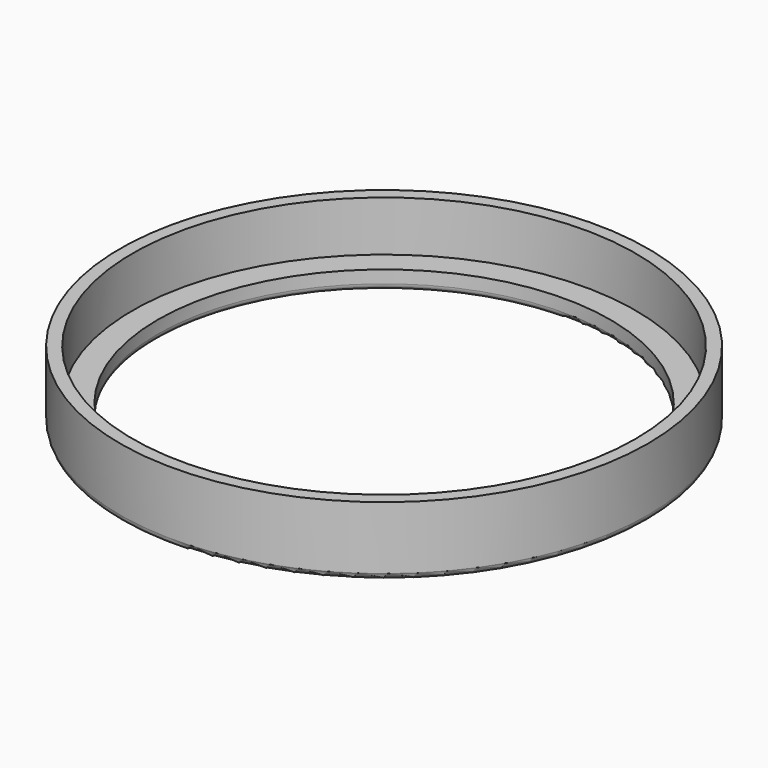
from build123d import *

# Parameters (mm, degrees)
F0_R     = 40
F0_R_2   = 36
F1_DEPTH = 3
F0_R_3   = 42
F2_DEPTH = 11
F3_R     = 1
F4_R     = 1


with BuildPart() as f1:
    # F0 (on Top) → F1 (new body)
    with BuildSketch(Plane.XY):
        Circle(F0_R)
        Circle(F0_R_2, mode=Mode.SUBTRACT)
    extrude(amount=F1_DEPTH)

    # F0 (on Top) → F2 (join)
    with BuildSketch(Plane.XY):
        Circle(F0_R_3)
        Circle(F0_R, mode=Mode.SUBTRACT)
    extrude(amount=F2_DEPTH)

    # F3
    f3_edges = [f1.edges().sort_by_distance(p)[0] for p in [
        (-42, 0, 0),
    ]]
    fillet(f3_edges, radius=F3_R)

    # F4
    f4_edges = [f1.edges().sort_by_distance(p)[0] for p in [
        (-36, 0, 0),
    ]]
    fillet(f4_edges, radius=F4_R)


solid = f1.part
